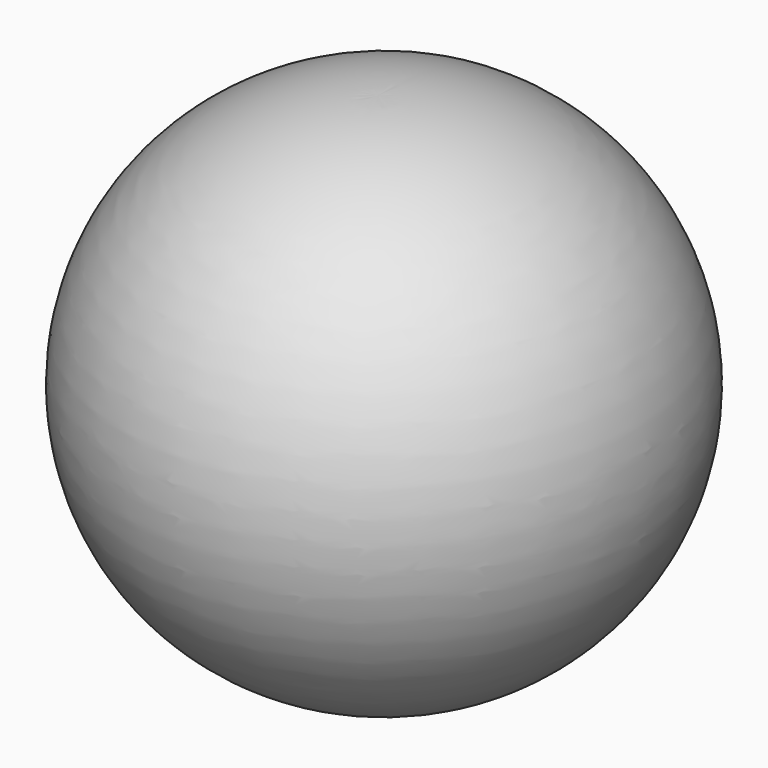
from build123d import *


with BuildPart() as f1:
    # F0 (on Right) → F1 (revolve)
    with BuildSketch(Plane.YZ):
        with BuildLine():
            Line((0, 81.2934583156), (2.4271965958, -9.4527881294))
            ThreePointArc((2.4271965958, -9.4527881294), (47.8165470185, 37.1668276249), (0, 81.2934583156))
        make_face()
    revolve(axis=Axis((0, 1.2135982979, 35.9203350931), (0, 0.0267375119, -0.9996424888)))


solid = f1.part
